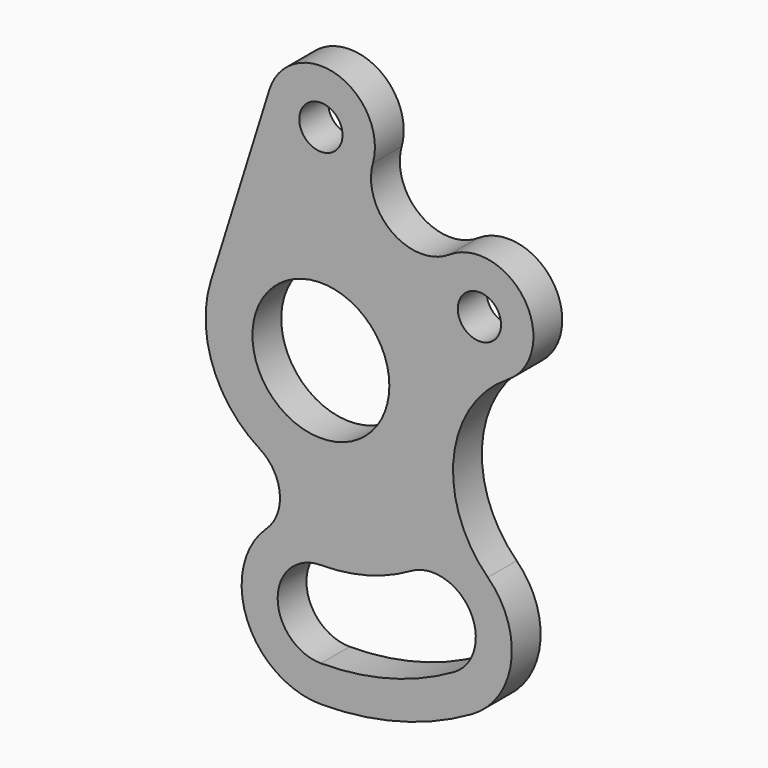
from build123d import *

# Parameters (mm, degrees)
F0_R     = 19
F0_R_2   = 6
F1_DEPTH = 10


with BuildPart() as f1:
    # F0 (on Front) → F1 (new body)
    with BuildSketch(Plane.XZ):
        with BuildLine():
            ThreePointArc((35.678131, 37.479843), (19.676649, 37.805392), (14.436751, 52.928119))
            ThreePointArc((14.436751, 52.928119), (4.2732, 71.378448), (-14.317337, 61.473684))
            Line((-14.317337, 61.473684), (-30.543653, 9.54386))
            ThreePointArc((-30.543653, 9.54386), (-30.013481, -11.099143), (-16.985078, -27.120235))
            ThreePointArc((-16.985078, -27.120235), (-11.413054, -36.106142), (-15.111724, -46.011385))
            ThreePointArc((-15.111724, -46.011385), (-20.441985, -70.131743), (0, -84))
            ThreePointArc((0, -84), (21.7408, -81.137769), (42, -72.746134))
            ThreePointArc((42, -72.746134), (52.830446, -56.419677), (46.347556, -37.931198))
            ThreePointArc((46.347556, -37.931198), (36.8637, -11.500057), (51.87381, 12.232733))
            ThreePointArc((51.87381, 12.232733), (56.625543, 33.099115), (35.678131, 37.479843))
        make_face()
        with BuildLine():
            ThreePointArc((0, -74), (-12, -62), (0, -50))
            ThreePointArc((0, -50), (12.940952, -48.296291), (25, -43.30127))
            ThreePointArc((25, -43.30127), (41.392305, -47.693575), (37, -64.08588))
            ThreePointArc((37, -64.08588), (19.152609, -71.478511), (0, -74))
        make_face(mode=Mode.SUBTRACT)
        Circle(F0_R, mode=Mode.SUBTRACT)
        with Locations((0, 57)):
            Circle(F0_R_2, mode=Mode.SUBTRACT)
        with Locations((44, 25)):
            Circle(F0_R_2, mode=Mode.SUBTRACT)
    extrude(amount=F1_DEPTH)


solid = f1.part
